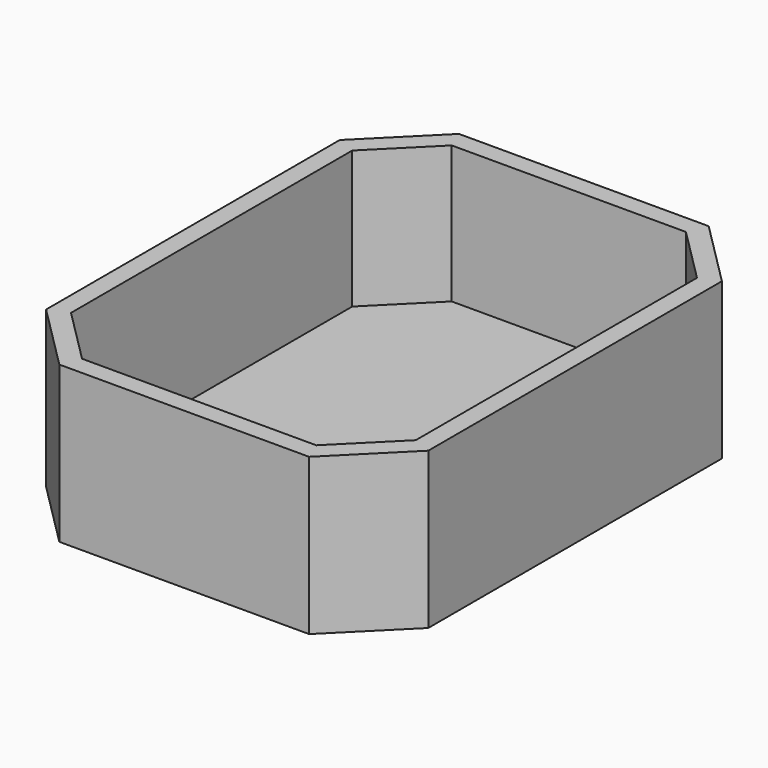
from build123d import *

# Parameters (mm, degrees)
F1_DEPTH = 3
F2_DEPTH = 25


with BuildPart() as f1:
    # F0 (on Top) → F1 (new body)
    with BuildSketch(Plane.XY):
        Polygon((-20, -40), (0, -40), (20, -40), (30.606602, -29.393398), (30.606602, 29.393398), (20, 40), (0, 40), (-20, 40), (-30.606602, 29.393398), (-30.606602, -29.393398), align=None)
        Polygon((-18.757359, -37), (-27.606602, -28.150758), (-27.606602, 28.150758), (-18.757359, 37), (0, 37), (18.757359, 37), (27.606602, 28.150758), (27.606602, -28.150758), (18.757359, -37), (0, -37), align=None, mode=Mode.SUBTRACT)
        Polygon((-27.606602, 28.150758), (-27.606602, -28.150758), (-18.757359, -37), (0, -37), (18.757359, -37), (27.606602, -28.150758), (27.606602, 28.150758), (18.757359, 37), (0, 37), (-18.757359, 37), align=None)
    extrude(amount=F1_DEPTH)

    # F0 (on Top) → F2 (join)
    with BuildSketch(Plane.XY):
        Polygon((-20, -40), (0, -40), (20, -40), (30.606602, -29.393398), (30.606602, 29.393398), (20, 40), (0, 40), (-20, 40), (-30.606602, 29.393398), (-30.606602, -29.393398), align=None)
        Polygon((-18.757359, -37), (-27.606602, -28.150758), (-27.606602, 28.150758), (-18.757359, 37), (0, 37), (18.757359, 37), (27.606602, 28.150758), (27.606602, -28.150758), (18.757359, -37), (0, -37), align=None, mode=Mode.SUBTRACT)
    extrude(amount=F2_DEPTH)


solid = f1.part
